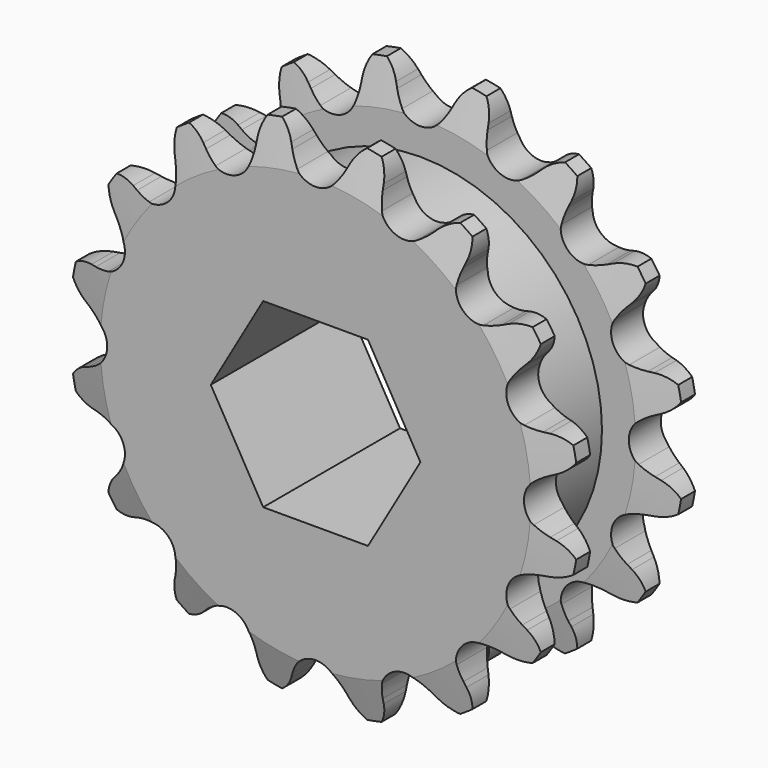
from build123d import *

# Parameters (mm, degrees)
F0_W     = 2.794
F0_H     = 5.1562
F0_H_2   = 9.525
F0_W_2   = 6.3754
F2_SIZE2 = 0.7874
F2_SIZE  = 2.794
F3_SIZE2 = 2.794
F3_SIZE  = 0.7874
F5_DEPTH = 11.9644
F7_DEPTH = 11.9644001


with BuildPart() as f1:
    # F0 (on Right) → F1 (revolve)
    with BuildSketch(Plane.YZ):
        with Locations((1.397, 15.2781)):
            Rectangle(F0_W, F0_H)
        with Locations((1.397, 7.9375)):
            Rectangle(F0_W, F0_H_2)
        with Locations((5.9817, 7.9375)):
            Rectangle(F0_W_2, F0_H_2)
        Polygon((9.1694, 12.7), (9.1694, 3.175), (11.9634, 3.175), (11.9634, 17.8562), (9.1694, 17.8562), align=None)
    revolve(axis=Axis((0, 5.8612824179, 0), (0, 1, 0)))

    # F2
    f2_edges = [f1.edges().sort_by_distance(p)[0] for p in [
        (0, 0, -17.8562),
        (0, 2.794, -17.8562),
    ]]
    chamfer(f2_edges, length=F2_SIZE, length2=F2_SIZE2)

    # F3
    f3_edges = [f1.edges().sort_by_distance(p)[0] for p in [
        (0, 11.9634, -17.8562),
        (0, 9.1694, -17.8562),
    ]]
    f3_side = f1.faces().sort_by_distance((0, 10.5664, -17.8562))[0]
    chamfer(f3_edges, length=F3_SIZE, length2=F3_SIZE2, reference=f3_side)

    # F4 (on face) → F5 (intersect, through all)
    with BuildSketch(Plane.XZ):
        with BuildLine():
            ThreePointArc((-1.3242360534, 15.2122382035), (-1.6399658803, 15.6610598977), (-1.8965305961, 16.1461380185))
            Line((-1.8965305961, 16.1461380185), (-2.0521895801, 16.4916881494))
            ThreePointArc((-2.0521895801, 16.4916881494), (-2.6667426734, 17.3543615176), (-3.5639671459, 17.9172727811))
            ThreePointArc((-3.5639671459, 17.9172727811), (-4.1774776577, 17.0538576454), (-4.4151198766, 16.0216720902))
            Line((-4.4151198766, 16.0216720902), (-4.4266937158, 15.6428572825))
            ThreePointArc((-4.4266937158, 15.6428572825), (-4.4780972453, 15.0965204689), (-4.5980369437, 14.5610387181))
            ThreePointArc((-4.5980369437, 14.5610387181), (-5.5783993546, 13.4674473782), (-7.0449061157, 13.5475123217))
            ThreePointArc((-7.0449061157, 13.5475123217), (-7.5083590669, 13.8413449249), (-7.9310253169, 14.1913156063))
            Line((-7.9310253169, 14.1913156063), (-8.2070717764, 14.4509941854))
            ThreePointArc((-8.2070717764, 14.4509941854), (-9.1049756064, 15.0128211664), (-10.1493197471, 15.1895304207))
            ThreePointArc((-10.1493197471, 15.1895304207), (-10.3857148843, 14.1570585403), (-10.2102673553, 13.112501692))
            Line((-10.2102673553, 13.112501692), (-10.0759940376, 12.7580933281))
            ThreePointArc((-10.0759940376, 12.7580933281), (-9.9144106593, 12.2336726491), (-9.8203004974, 11.693053084))
            ThreePointArc((-9.8203004974, 11.693053084), (-10.3075379758, 10.3075379758), (-11.693053084, 9.8203004974))
            ThreePointArc((-11.693053084, 9.8203004974), (-12.2336726491, 9.9144106593), (-12.7580933281, 10.0759940376))
            Line((-12.7580933281, 10.0759940376), (-13.112501692, 10.2102673553))
            ThreePointArc((-13.112501692, 10.2102673553), (-14.1570585403, 10.3857148843), (-15.1895304207, 10.1493197471))
            ThreePointArc((-15.1895304207, 10.1493197471), (-15.0128211664, 9.1049756064), (-14.4509941854, 8.2070717764))
            Line((-14.4509941854, 8.2070717764), (-14.1913156063, 7.9310253169))
            ThreePointArc((-14.1913156063, 7.9310253169), (-13.8413449249, 7.5083590669), (-13.5475123217, 7.0449061157))
            ThreePointArc((-13.5475123217, 7.0449061157), (-13.4674473782, 5.5783993546), (-14.5610387181, 4.5980369437))
            ThreePointArc((-14.5610387181, 4.5980369437), (-15.0965204689, 4.4780972453), (-15.6428572825, 4.4266937158))
            Line((-15.6428572825, 4.4266937158), (-16.0216720902, 4.4151198766))
            ThreePointArc((-16.0216720902, 4.4151198766), (-17.0538576454, 4.1774776577), (-17.9172727811, 3.5639671459))
            ThreePointArc((-17.9172727811, 3.5639671459), (-17.3543615176, 2.6667426734), (-16.4916881494, 2.0521895801))
            Line((-16.4916881494, 2.0521895801), (-16.1461380185, 1.8965305961))
            ThreePointArc((-16.1461380185, 1.8965305961), (-15.6610598977, 1.6399658803), (-15.2122382035, 1.3242360534))
            ThreePointArc((-15.2122382035, 1.3242360534), (-14.57706, 0), (-15.2122382035, -1.3242360534))
            ThreePointArc((-15.2122382035, -1.3242360534), (-15.6610598977, -1.6399658803), (-16.1461380185, -1.8965305961))
            Line((-16.1461380185, -1.8965305961), (-16.4916881494, -2.0521895801))
            ThreePointArc((-16.4916881494, -2.0521895801), (-17.3543615176, -2.6667426734), (-17.9172727811, -3.5639671459))
            ThreePointArc((-17.9172727811, -3.5639671459), (-17.0538576454, -4.1774776577), (-16.0216720902, -4.4151198766))
            Line((-16.0216720902, -4.4151198766), (-15.6428572825, -4.4266937158))
            ThreePointArc((-15.6428572825, -4.4266937158), (-15.0965204689, -4.4780972453), (-14.5610387181, -4.5980369437))
            ThreePointArc((-14.5610387181, -4.5980369437), (-13.4674473782, -5.5783993546), (-13.5475123217, -7.0449061157))
            ThreePointArc((-13.5475123217, -7.0449061157), (-13.8413449249, -7.5083590669), (-14.1913156063, -7.9310253169))
            Line((-14.1913156063, -7.9310253169), (-14.4509941854, -8.2070717764))
            ThreePointArc((-14.4509941854, -8.2070717764), (-15.0128211664, -9.1049756064), (-15.1895304207, -10.1493197471))
            ThreePointArc((-15.1895304207, -10.1493197471), (-14.1570585403, -10.3857148843), (-13.112501692, -10.2102673553))
            Line((-13.112501692, -10.2102673553), (-12.7580933281, -10.0759940376))
            ThreePointArc((-12.7580933281, -10.0759940376), (-12.2336726491, -9.9144106593), (-11.693053084, -9.8203004974))
            ThreePointArc((-11.693053084, -9.8203004974), (-10.3075379758, -10.3075379758), (-9.8203004974, -11.693053084))
            ThreePointArc((-9.8203004974, -11.693053084), (-9.9144106593, -12.2336726491), (-10.0759940376, -12.7580933281))
            Line((-10.0759940376, -12.7580933281), (-10.2102673553, -13.112501692))
            ThreePointArc((-10.2102673553, -13.112501692), (-10.3857148843, -14.1570585403), (-10.1493197471, -15.1895304207))
            ThreePointArc((-10.1493197471, -15.1895304207), (-9.1049756064, -15.0128211664), (-8.2070717764, -14.4509941854))
            Line((-8.2070717764, -14.4509941854), (-7.9310253169, -14.1913156063))
            ThreePointArc((-7.9310253169, -14.1913156063), (-7.5083590669, -13.8413449249), (-7.0449061157, -13.5475123217))
            ThreePointArc((-7.0449061157, -13.5475123217), (-5.5783993546, -13.4674473782), (-4.5980369437, -14.5610387181))
            ThreePointArc((-4.5980369437, -14.5610387181), (-4.4780972453, -15.0965204689), (-4.4266937158, -15.6428572825))
            Line((-4.4266937158, -15.6428572825), (-4.4151198766, -16.0216720902))
            ThreePointArc((-4.4151198766, -16.0216720902), (-4.1774776577, -17.0538576454), (-3.5639671459, -17.9172727811))
            ThreePointArc((-3.5639671459, -17.9172727811), (-2.6667426734, -17.3543615176), (-2.0521895801, -16.4916881494))
            Line((-2.0521895801, -16.4916881494), (-1.8965305961, -16.1461380185))
            ThreePointArc((-1.8965305961, -16.1461380185), (-1.6399658803, -15.6610598977), (-1.3242360534, -15.2122382035))
            ThreePointArc((-1.3242360534, -15.2122382035), (0, -14.57706), (1.3242360534, -15.2122382035))
            ThreePointArc((1.3242360534, -15.2122382035), (1.6399658803, -15.6610598977), (1.8965305961, -16.1461380185))
            Line((1.8965305961, -16.1461380185), (2.0521895801, -16.4916881494))
            ThreePointArc((2.0521895801, -16.4916881494), (2.6667426734, -17.3543615176), (3.5639671459, -17.9172727811))
            ThreePointArc((3.5639671459, -17.9172727811), (4.1774776577, -17.0538576454), (4.4151198766, -16.0216720902))
            Line((4.4151198766, -16.0216720902), (4.4266937158, -15.6428572825))
            ThreePointArc((4.4266937158, -15.6428572825), (4.4780972453, -15.0965204689), (4.5980369437, -14.5610387181))
            ThreePointArc((4.5980369437, -14.5610387181), (5.5783993546, -13.4674473782), (7.0449061157, -13.5475123217))
            ThreePointArc((7.0449061157, -13.5475123217), (7.5083590669, -13.8413449249), (7.9310253169, -14.1913156063))
            Line((7.9310253169, -14.1913156063), (8.2070717764, -14.4509941854))
            ThreePointArc((8.2070717764, -14.4509941854), (9.1049756064, -15.0128211664), (10.1493197471, -15.1895304207))
            ThreePointArc((10.1493197471, -15.1895304207), (10.3857148843, -14.1570585403), (10.2102673553, -13.112501692))
            Line((10.2102673553, -13.112501692), (10.0759940376, -12.7580933281))
            ThreePointArc((10.0759940376, -12.7580933281), (9.9144106593, -12.2336726491), (9.8203004974, -11.693053084))
            ThreePointArc((9.8203004974, -11.693053084), (10.3075379758, -10.3075379758), (11.693053084, -9.8203004974))
            ThreePointArc((11.693053084, -9.8203004974), (12.2336726491, -9.9144106593), (12.7580933281, -10.0759940376))
            Line((12.7580933281, -10.0759940376), (13.112501692, -10.2102673553))
            ThreePointArc((13.112501692, -10.2102673553), (14.1570585403, -10.3857148843), (15.1895304207, -10.1493197471))
            ThreePointArc((15.1895304207, -10.1493197471), (15.0128211664, -9.1049756064), (14.4509941854, -8.2070717764))
            Line((14.4509941854, -8.2070717764), (14.1913156063, -7.9310253169))
            ThreePointArc((14.1913156063, -7.9310253169), (13.8413449249, -7.5083590669), (13.5475123217, -7.0449061157))
            ThreePointArc((13.5475123217, -7.0449061157), (13.4674473782, -5.5783993546), (14.5610387181, -4.5980369437))
            ThreePointArc((14.5610387181, -4.5980369437), (15.0965204689, -4.4780972453), (15.6428572825, -4.4266937158))
            Line((15.6428572825, -4.4266937158), (16.0216720902, -4.4151198766))
            ThreePointArc((16.0216720902, -4.4151198766), (17.0538576454, -4.1774776577), (17.9172727811, -3.5639671459))
            ThreePointArc((17.9172727811, -3.5639671459), (17.3543615176, -2.6667426734), (16.4916881494, -2.0521895801))
            Line((16.4916881494, -2.0521895801), (16.1461380185, -1.8965305961))
            ThreePointArc((16.1461380185, -1.8965305961), (15.6610598977, -1.6399658803), (15.2122382035, -1.3242360534))
            ThreePointArc((15.2122382035, -1.3242360534), (14.57706, 0), (15.2122382035, 1.3242360534))
            ThreePointArc((15.2122382035, 1.3242360534), (15.6610598977, 1.6399658803), (16.1461380185, 1.8965305961))
            Line((16.1461380185, 1.8965305961), (16.4916881494, 2.0521895801))
            ThreePointArc((16.4916881494, 2.0521895801), (17.3543615176, 2.6667426734), (17.9172727811, 3.5639671459))
            ThreePointArc((17.9172727811, 3.5639671459), (17.0538576454, 4.1774776577), (16.0216720902, 4.4151198766))
            Line((16.0216720902, 4.4151198766), (15.6428572825, 4.4266937158))
            ThreePointArc((15.6428572825, 4.4266937158), (15.0965204689, 4.4780972453), (14.5610387181, 4.5980369437))
            ThreePointArc((14.5610387181, 4.5980369437), (13.4674473782, 5.5783993546), (13.5475123217, 7.0449061157))
            ThreePointArc((13.5475123217, 7.0449061157), (13.8413449249, 7.5083590669), (14.1913156063, 7.9310253169))
            Line((14.1913156063, 7.9310253169), (14.4509941854, 8.2070717764))
            ThreePointArc((14.4509941854, 8.2070717764), (15.0128211664, 9.1049756064), (15.1895304207, 10.1493197471))
            ThreePointArc((15.1895304207, 10.1493197471), (14.1570585403, 10.3857148843), (13.112501692, 10.2102673553))
            Line((13.112501692, 10.2102673553), (12.7580933281, 10.0759940376))
            ThreePointArc((12.7580933281, 10.0759940376), (12.2336726491, 9.9144106593), (11.693053084, 9.8203004974))
            ThreePointArc((11.693053084, 9.8203004974), (10.3075379758, 10.3075379758), (9.8203004974, 11.693053084))
            ThreePointArc((9.8203004974, 11.693053084), (9.9144106593, 12.2336726491), (10.0759940376, 12.7580933281))
            Line((10.0759940376, 12.7580933281), (10.2102673553, 13.112501692))
            ThreePointArc((10.2102673553, 13.112501692), (10.3857148843, 14.1570585403), (10.1493197471, 15.1895304207))
            ThreePointArc((10.1493197471, 15.1895304207), (9.1049756064, 15.0128211664), (8.2070717764, 14.4509941854))
            Line((8.2070717764, 14.4509941854), (7.9310253169, 14.1913156063))
            ThreePointArc((7.9310253169, 14.1913156063), (7.5083590669, 13.8413449249), (7.0449061157, 13.5475123217))
            ThreePointArc((7.0449061157, 13.5475123217), (5.5783993546, 13.4674473782), (4.5980369437, 14.5610387181))
            ThreePointArc((4.5980369437, 14.5610387181), (4.4780972453, 15.0965204689), (4.4266937158, 15.6428572825))
            Line((4.4266937158, 15.6428572825), (4.4151198766, 16.0216720902))
            ThreePointArc((4.4151198766, 16.0216720902), (4.1774776577, 17.0538576454), (3.5639671459, 17.9172727811))
            ThreePointArc((3.5639671459, 17.9172727811), (2.6667426734, 17.3543615176), (2.0521895801, 16.4916881494))
            Line((2.0521895801, 16.4916881494), (1.8965305961, 16.1461380185))
            ThreePointArc((1.8965305961, 16.1461380185), (1.6399658803, 15.6610598977), (1.3242360534, 15.2122382035))
            ThreePointArc((1.3242360534, 15.2122382035), (0, 14.57706), (-1.3242360534, 15.2122382035))
        make_face()
    extrude(amount=-F5_DEPTH, mode=Mode.INTERSECT)

    # F6 (on face) → F7 (cut, through all)
    with BuildSketch(Plane.XZ):
        Polygon((3.6661742094, 6.35), (-3.6661742094, 6.35), (-7.3323484187, 0), (-3.6661742094, -6.35), (3.6661742094, -6.35), (7.3323484187, 0), align=None)
    extrude(amount=-F7_DEPTH, mode=Mode.SUBTRACT)


solid = f1.part
